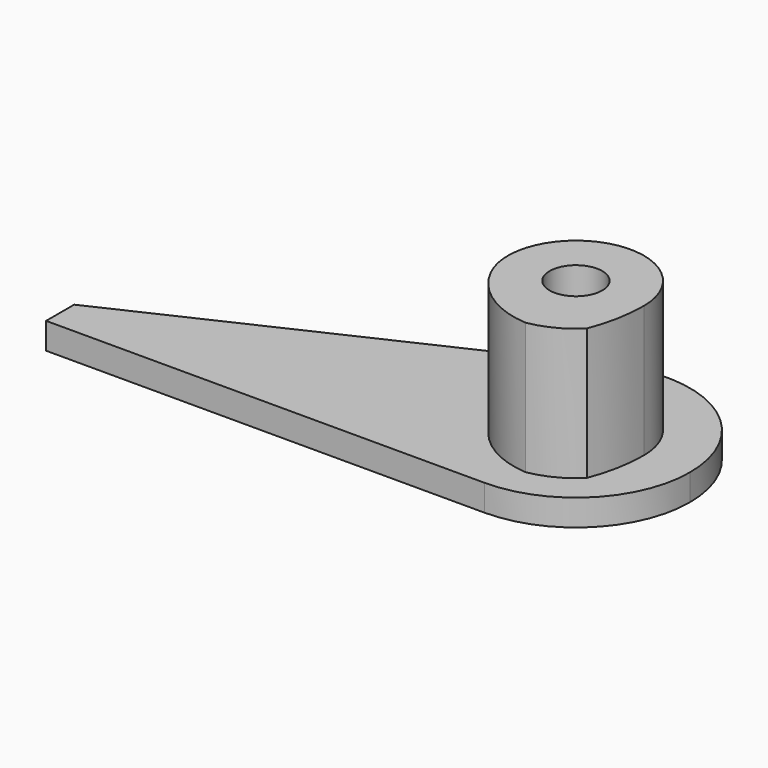
from build123d import *

# Parameters (mm, degrees)
F0_R     = 1.5
F1_DEPTH = 1.5
F2_DEPTH = 9


with BuildPart() as f1:
    # F0 (on Top) → F1 (new body)
    with BuildSketch(Plane.XY):
        with BuildLine():
            ThreePointArc((0, -6.5), (-6.345554, -1.408528), (-2.75012, 5.889554))
            Line((-2.75012, 5.889554), (-25, -4.5))
            Line((-25, -4.5), (-25, -6.5))
            Line((-25, -6.5), (0, -6.5))
        make_face()
        with BuildLine():
            ThreePointArc((0, -6.5), (4.596194, -4.596194), (6.5, 0))
            ThreePointArc((6.5, 0), (3.491004, 5.482964), (-2.75012, 5.889554))
            ThreePointArc((-2.75012, 5.889554), (-6.345554, -1.408528), (0, -6.5))
        make_face()
        with BuildLine():
            ThreePointArc((3.270369, 3.270369), (4.272943, 1.769911), (4.625, 0))
            ThreePointArc((4.625, 0), (4.267428, -1.783168), (3.25, -3.290612))
            ThreePointArc((3.25, -3.290612), (2.112462, -4.114381), (0.780118, -4.558732))
            ThreePointArc((0.780118, -4.558732), (-4.407416, 1.401894), (3.270369, 3.270369))
        make_face(mode=Mode.SUBTRACT)
        with BuildLine():
            ThreePointArc((0.780118, -4.558732), (2.112462, -4.114381), (3.25, -3.290612))
            ThreePointArc((3.25, -3.290612), (3.715891, -1.67444), (3.875, 0))
            ThreePointArc((3.875, 0), (-0.887645, 3.771964), (-3.468335, -1.728085))
            ThreePointArc((-3.468335, -1.728085), (-1.721911, -3.710444), (0.780118, -4.558732))
        make_face()
        Circle(F0_R, mode=Mode.SUBTRACT)
        with BuildLine():
            ThreePointArc((3.25, -3.290612), (4.267428, -1.783168), (4.625, 0))
            ThreePointArc((4.625, 0), (4.272943, 1.769911), (3.270369, 3.270369))
            ThreePointArc((3.270369, 3.270369), (3.724037, 1.663167), (3.875, 0))
            ThreePointArc((3.875, 0), (3.715891, -1.67444), (3.25, -3.290612))
        make_face()
        with BuildLine():
            ThreePointArc((3.875, 0), (3.724037, 1.663167), (3.270369, 3.270369))
            ThreePointArc((3.270369, 3.270369), (-4.407416, 1.401894), (0.780118, -4.558732))
            ThreePointArc((0.780118, -4.558732), (-1.721911, -3.710444), (-3.468335, -1.728085))
            ThreePointArc((-3.468335, -1.728085), (-0.887645, 3.771964), (3.875, 0))
        make_face()
    extrude(amount=F1_DEPTH)

    # F0 (on Top) → F2 (join)
    with BuildSketch(Plane.XY):
        with BuildLine():
            ThreePointArc((0.780118, -4.558732), (2.112462, -4.114381), (3.25, -3.290612))
            ThreePointArc((3.25, -3.290612), (3.715891, -1.67444), (3.875, 0))
            ThreePointArc((3.875, 0), (-0.887645, 3.771964), (-3.468335, -1.728085))
            ThreePointArc((-3.468335, -1.728085), (-1.721911, -3.710444), (0.780118, -4.558732))
        make_face()
        Circle(F0_R, mode=Mode.SUBTRACT)
    extrude(amount=F2_DEPTH)


solid = f1.part
